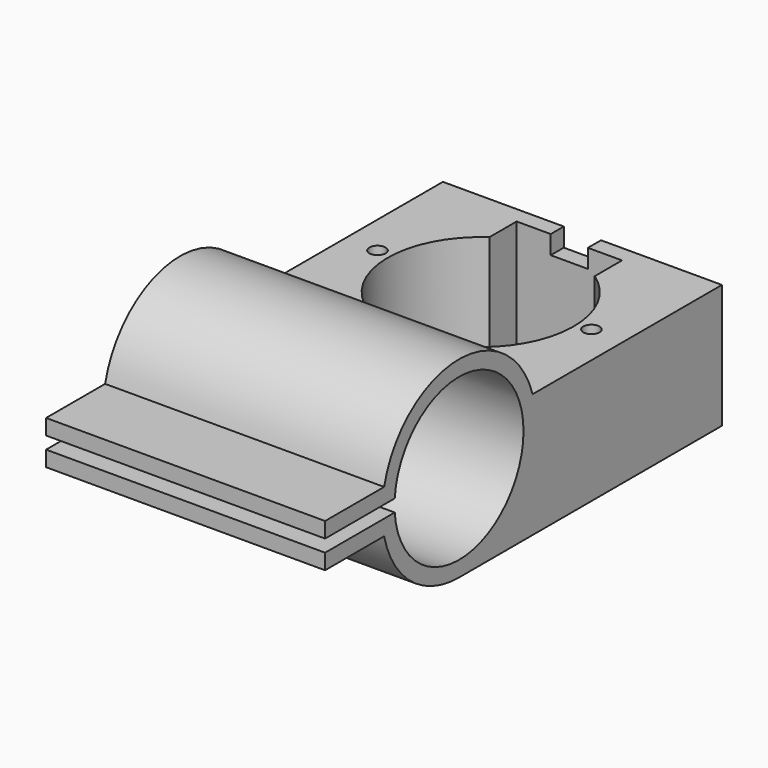
from build123d import *

# Parameters (mm, degrees)
SKETCH_W        = 45
SKETCH_H        = 37.5
PAD_DEPTH       = 20
POCKET_DEPTH    = 18
SKETCH002_R     = 1.3
POCKET003_DEPTH = 15
SKETCH003_W     = 6
SKETCH003_H     = 2.6407929057
POCKET001_DEPTH = 3
PAD002_DEPTH    = 45


with BuildPart() as part:
    # Sketch → Pad (new body)
    with BuildSketch(Plane.XY):
        Rectangle(SKETCH_W, SKETCH_H)
    extrude(amount=PAD_DEPTH)

    # Sketch001 (on Face6 of Pad) → Pocket (cut)
    with BuildSketch(Plane.XY.offset(20)):
        with BuildLine():
            Line((8.5, 10.6092070943), (8.5, 16.1092070943))
            Line((8.5, 16.1092070943), (-8.5, 16.1092070943))
            Line((-8.5, 16.1092070943), (-8.5, 10.6092070943))
            ThreePointArc((-8.5, 10.6092070943), (0, -16.75), (8.5, 10.6092070943))
        make_face()
    extrude(amount=-POCKET_DEPTH, mode=Mode.SUBTRACT)

    # Sketch002 (on Face5 of Pocket) → Pocket003 (cut)
    with BuildSketch(Plane.XY.offset(20)):
        with Locations((-17.25, -1)):
            Circle(SKETCH002_R)
        with Locations((17.25, -1)):
            Circle(SKETCH002_R)
    extrude(amount=-POCKET003_DEPTH, mode=Mode.SUBTRACT)

    # Sketch003 (on Face5 of Pocket003) → Pocket001 (cut)
    with BuildSketch(Plane.XY.offset(20)):
        with Locations((0, 17.4296035472)):
            Rectangle(SKETCH003_W, SKETCH003_H)
    extrude(amount=-POCKET001_DEPTH, mode=Mode.SUBTRACT)

    # Sketch006 (on Face8 of Pocket001) → Pad002 (join)
    with BuildSketch(Plane(origin=(-22.5, 0, 0), x_dir=(0, -1, 0), z_dir=(-1, 0, 0))):
        with BuildLine():
            ThreePointArc((47.2114813968, 16.5), (21.25, 15.5), (47.2114813968, 14.5))
            Line((61.25, 14.5), (47.2114813968, 14.5))
            Line((61.25, 12), (61.25, 14.5))
            Line((49.3496688705, 12), (61.25, 12))
            ThreePointArc((34.2500364402, 0), (43.8936650252, 3.3653502365), (49.3496688705, 12))
            Line((18.75, 0), (34.2500364402, 0))
            Line((18.75, 0), (18.75, 20))
            Line((18.75, 20), (19.4176030258, 20))
            ThreePointArc((49.3496688705, 19), (34.767550545, 30.9913569913), (19.4176030258, 20))
            Line((61.25, 19), (49.3496688705, 19))
            Line((61.25, 16.5), (61.25, 19))
            Line((47.2114813968, 16.5), (61.25, 16.5))
        make_face()
    extrude(amount=-PAD002_DEPTH)


solid = part.part
